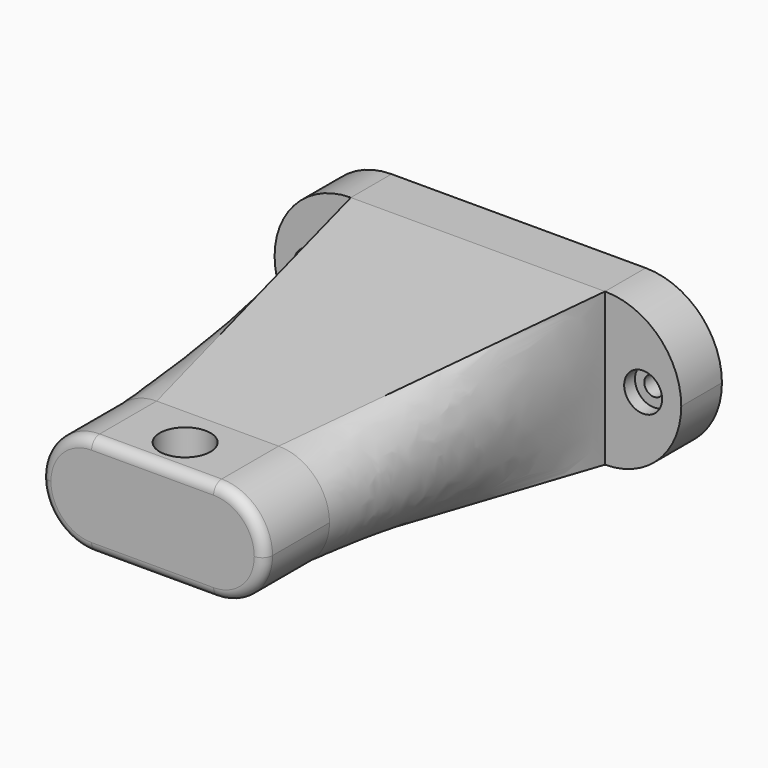
from build123d import *

# Parameters (mm, degrees)
F1_DEPTH        = 12.7
F5_DEPTH        = 20.32
F4_W            = 63.5
F4_H            = 38.1
F9_D            = 12.7
F11_D           = 4.826
F11_CBORE_D     = 9.4742
F11_CBORE_DEPTH = 3.3782
F12_R           = 2.54


with BuildPart() as f1:
    # F0 (on Front) → F1 (new body)
    with BuildSketch(Plane.XZ):
        with BuildLine():
            ThreePointArc((0, 19.05), (5.5796158184, 5.5796158184), (19.05, 0))
            Line((19.05, 0), (82.55, 0))
            ThreePointArc((82.55, 0), (96.0203841816, 5.5796158184), (101.6, 19.05))
            ThreePointArc((101.6, 19.05), (96.0203841816, 32.5203841816), (82.55, 38.1))
            Line((82.55, 38.1), (19.05, 38.1))
            ThreePointArc((19.05, 38.1), (5.5796158184, 32.5203841816), (0, 19.05))
        make_face()
    extrude(amount=F1_DEPTH)


with BuildPart() as f5:
    # F3 (on offset) → F5 (new body)
    with BuildSketch(Plane.XZ.offset(93.98)):
        with BuildLine():
            ThreePointArc((22.86, 19.05), (26.5797438789, 10.0697438789), (35.56, 6.35))
            Line((35.56, 6.35), (66.04, 6.35))
            ThreePointArc((66.04, 6.35), (75.0202561211, 10.0697438789), (78.74, 19.05))
            ThreePointArc((78.74, 19.05), (75.0202561211, 28.0302561211), (66.04, 31.75))
            Line((66.04, 31.75), (35.56, 31.75))
            ThreePointArc((35.56, 31.75), (26.5797438789, 28.0302561211), (22.86, 19.05))
        make_face()
    extrude(amount=F5_DEPTH)


with BuildPart() as f6:
    # F4 (on face) → F6 section 0
    with BuildSketch(Plane.XZ.offset(12.7)):
        with Locations((50.8, 19.05)):
            Rectangle(F4_W, F4_H)
    # F5_face (on face) → F6 section 1
    with BuildSketch(Plane(origin=(50.8, -93.98, 19.05), x_dir=(1, 0, 0), z_dir=(0, 1, 0))):
        with BuildLine():
            ThreePointArc((-15.24, 12.7), (-27.94, 0), (-15.24, -12.7))
            Line((-15.24, -12.7), (15.24, -12.7))
            ThreePointArc((15.24, -12.7), (27.94, 0), (15.24, 12.7))
            Line((15.24, 12.7), (-15.24, 12.7))
        make_face()
    loft()


with BuildPart() as f1_1:
    add(f1.part)

    # F7: union F5, F6
    add(f5.part)
    add(f6.part)

    # F9 (through all)
    with Locations(Plane.XY.offset(31.75)):
        with Locations((50.8, -104.14)):
            Hole(F9_D / 2)

    # F11 (through all)
    with Locations(Plane.XZ.offset(12.7)):
        with Locations((9.525, 19.05), (92.075, 19.05)):
            CounterBoreHole(F11_D / 2, F11_CBORE_D / 2, F11_CBORE_DEPTH)

    # F12
    f12_edges = [f1_1.edges().sort_by_distance(p)[0] for p in [
        (50.8, -114.3, 31.75),
    ]]
    fillet(f12_edges, radius=F12_R)


solid = f1_1.part
